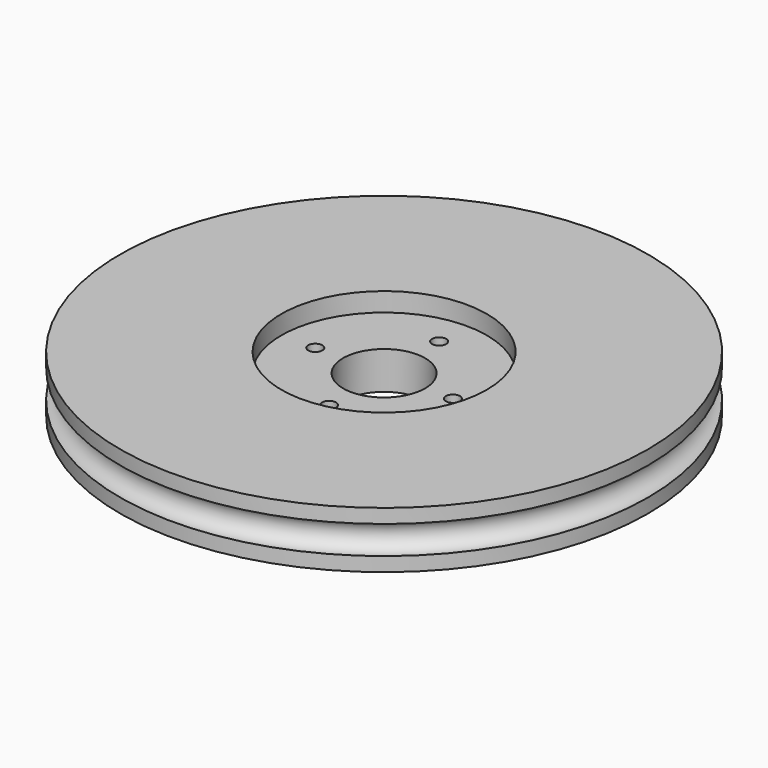
from build123d import *

# Parameters (mm, degrees)
CYLINDER003_R               = 0.75
CYLINDER003_DEPTH           = 10
ARRAY_COUNT                 = 4
CYLINDER002_R               = 4.35
CYLINDER002_DEPTH           = 10
CYLINDER002_PLACEMENT_ANGLE = 355
CYLINDER001_R               = 10.9
CYLINDER001_DEPTH           = 10
TORUS_R                     = 1.5
CYLINDER_R                  = 28
CYLINDER_DEPTH              = 6


with BuildPart() as array:
    # Cylinder003 → Cylinder003 (new body)
    with BuildSketch(Plane(origin=(7.3, 0, -5), x_dir=(1, 0, 0), z_dir=(0, 0, 1))):
        Circle(CYLINDER003_R)
    extrude(amount=CYLINDER003_DEPTH)

    # Array: Array ×4 about axis
    array_axis = Axis((0, 0, 0), (0, 0, 1))


with BuildPart() as array_1:
    add(array.part)
    for i in range(1, ARRAY_COUNT):
        add(array.part.rotate(array_axis, i * 360 / ARRAY_COUNT))


with BuildPart() as hueco_eje:
    # Cylinder002 → Cylinder002 (new body)
    with BuildSketch(Plane.XY):
        Circle(CYLINDER002_R)
    extrude(amount=CYLINDER002_DEPTH)


with BuildPart() as hueco_eje_1:
    # Cylinder002 placement: moved
    add(hueco_eje.part.moved(Location((0, 0, -5))).rotate(Axis((0, 0, -5), (0, 0, 1)), CYLINDER002_PLACEMENT_ANGLE))


with BuildPart() as cilindro:
    # Cylinder001 → Cylinder001 (new body)
    with BuildSketch(Plane.XY.offset(1)):
        Circle(CYLINDER001_R)
    extrude(amount=CYLINDER001_DEPTH)


with BuildPart() as obj1:
    # Torus → Torus (revolve)
    with BuildSketch(Plane.XZ):
        with Locations((28, 0)):
            Circle(TORUS_R)
    revolve(axis=Axis((0, 0, 0), (0, 0, 1)))


with BuildPart() as obj2:
    # Cylinder → Cylinder (new body)
    with BuildSketch(Plane.XY.offset(-3)):
        Circle(CYLINDER_R)
    extrude(amount=CYLINDER_DEPTH)

    # Cut: cut obj1
    add(obj1.part, mode=Mode.SUBTRACT)

    # Cut001: cut Cilindro
    add(cilindro.part, mode=Mode.SUBTRACT)

    # Cut002: cut hueco_eje
    add(hueco_eje_1.part, mode=Mode.SUBTRACT)

    # Cut003: cut Array
    add(array_1.part, mode=Mode.SUBTRACT)


solid = obj2.part
